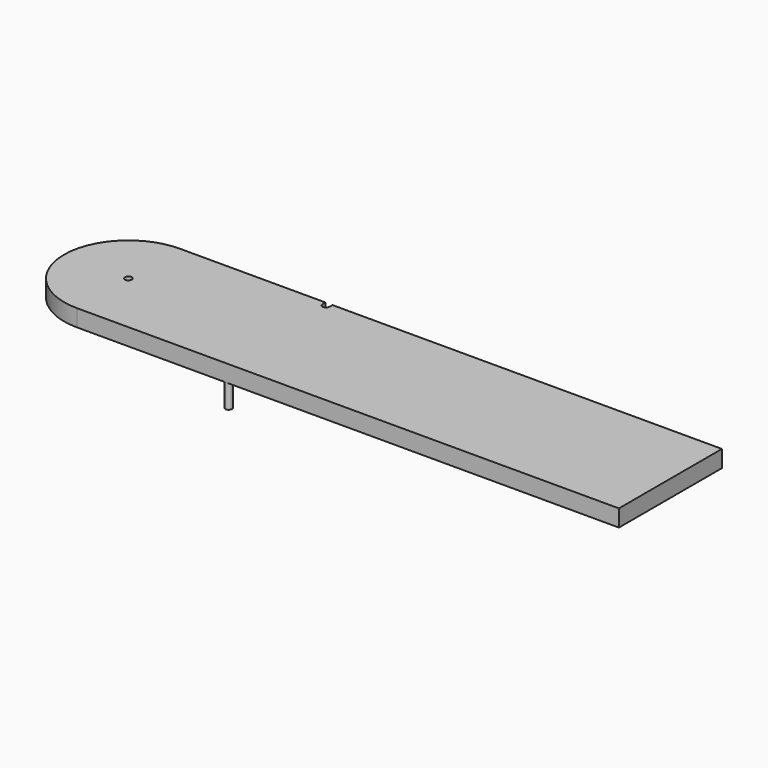
from build123d import *

# Parameters (mm, degrees)
F0_R     = 6.35
F1_DEPTH = 31.75
F2_R     = 6.35
F3_DEPTH = 44.45
F5_DEPTH = 31.75


with BuildPart() as f1:
    # F0 (on Top) → F1 (new body)
    with BuildSketch(Plane.XY):
        with BuildLine():
            Line((1016, 120.65), (0, 120.65))
            ThreePointArc((0, 120.65), (-120.65, 0), (0, -120.65))
            Line((0, -120.65), (1016, -120.65))
            Line((1016, -120.65), (1016, 120.65))
        make_face()
        Circle(F0_R, mode=Mode.SUBTRACT)
    extrude(amount=F1_DEPTH)

    # F2 (on face) → F3 (join)
    with BuildSketch(Plane(origin=(0, 0, 0), x_dir=(1, 0, 0), z_dir=(0, 0, -1))):
        with Locations((279.4, 114.3)):
            Circle(F2_R)
    extrude(amount=F3_DEPTH)

    # F4 (on face) → F5 (cut)
    with BuildSketch(Plane(origin=(0, 0, 0), x_dir=(1, 0, 0), z_dir=(0, 0, -1))):
        with BuildLine():
            Line((286.004, -120.65), (286.004, -114.046))
            ThreePointArc((286.004, -114.046), (279.4, -107.442), (272.796, -114.046))
            Line((272.796, -114.046), (272.796, -120.65))
            Line((272.796, -120.65), (286.004, -120.65))
        make_face()
    extrude(amount=-F5_DEPTH, mode=Mode.SUBTRACT)


solid = f1.part
